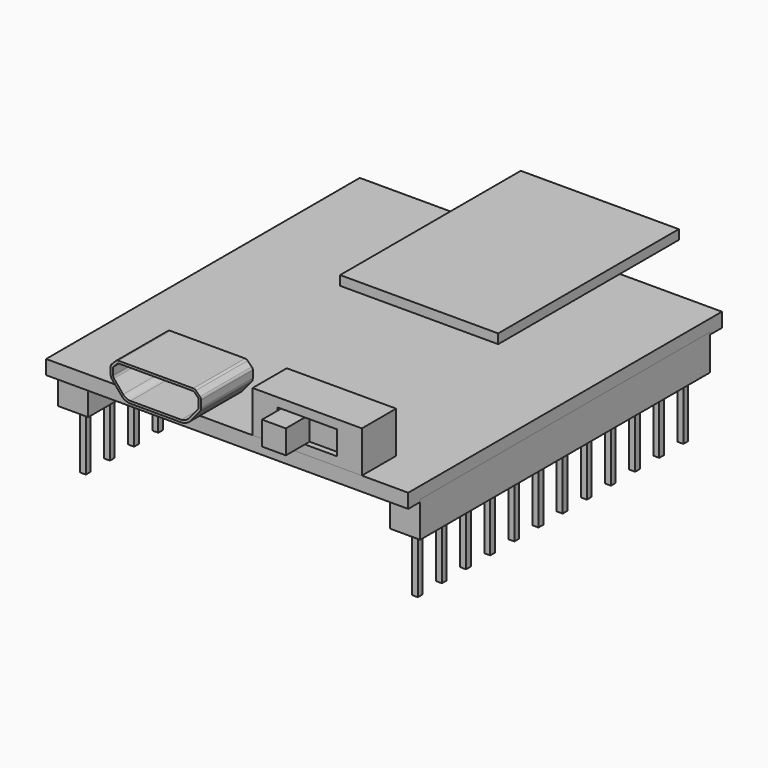
from build123d import *

# Parameters (mm, degrees)
F0_W      = 30.48
F0_H      = 33
F1_DEPTH  = 1.2
F2_W      = 13.3
F2_H      = 19
F3_DEPTH  = 0.8
F4_W      = 7.6
F4_H      = 5.45
F5_DEPTH  = 2.85
F7_DEPTH  = 10
F9_START  = -1
F8_W      = 2.54
F8_H      = 30.48
F9_DEPTH  = 3
F10_W     = 9.2
F10_H     = 3.6
F11_DEPTH = 3.5
F12_W     = 5
F12_H     = 2
F13_DEPTH = 0.5
F14_W     = 2
F14_H     = 2
F15_DEPTH = 2.5
F16_W     = 7.62
F16_H     = 2.8
F17_DEPTH = 2.54
F18_W     = 0.5
F18_H     = 0.5
F19_DEPTH = 5
F20_W     = 0.5
F20_H     = 0.5
F21_DEPTH = 5
F23_DEPTH = 5


with BuildPart() as f1:
    # F0 (on Top) → F1 (new body)
    with BuildSketch(Plane.XY):
        with Locations((0, -0.5)):
            Rectangle(F0_W, F0_H)
    extrude(amount=F1_DEPTH)


with BuildPart() as f3:
    # F2 (on face) → F3 (new body)
    with BuildSketch(Plane.XY.offset(1.2)):
        with Locations((0, 12.7)):
            Rectangle(F2_W, F2_H)
    extrude(amount=F3_DEPTH)


with BuildPart() as f5:
    # F4 (on face) → F5 (new body)
    with BuildSketch(Plane.XY.offset(1.2)):
        with Locations((-4.8, -15.775)):
            Rectangle(F4_W, F4_H)
    extrude(amount=F5_DEPTH)

    # F6 (on face) → F7 (cut)
    with BuildSketch(Plane.XZ.offset(18.5)):
        with BuildLine():
            Line((-7.9507359313, 4.05), (-4.8, 4.05))
            Line((-4.8, 4.05), (-1.6492640687, 4.05))
            ThreePointArc((-1.6492640687, 4.05), (-1.534459039, 4.0271638598), (-1.4371320344, 3.9621320344))
            Line((-1.4371320344, 3.9621320344), (-1.0878679656, 3.6128679656))
            ThreePointArc((-1.0878679656, 3.6128679656), (-1.0228361402, 3.515540961), (-1, 3.4007359313))
            Line((-1, 3.4007359313), (-1, 2.8069851171))
            ThreePointArc((-1, 2.8069851171), (-1.0301536896, 2.6359750455), (-1.1169777784, 2.4855913123))
            Line((-1.1169777784, 2.4855913123), (-1.8959801895, 1.5572123903))
            ThreePointArc((-1.8959801895, 1.5572123903), (-2.2394063708, 1.293692213), (-2.6620246326, 1.2))
            Line((-2.6620246326, 1.2), (6.9379753674, 1.2))
            Line((6.9379753674, 1.2), (11.1131762505, 1.2))
            Line((11.1131762505, 1.2), (11.1131762505, 8.2524418831))
            Line((11.1131762505, 8.2524418831), (-16.5379753674, 8.2524418831))
            Line((-16.5379753674, 8.2524418831), (-16.5379753674, 1.2))
            Line((-16.5379753674, 1.2), (-6.9379753674, 1.2))
            ThreePointArc((-6.9379753674, 1.2), (-7.3605936292, 1.293692213), (-7.7040198105, 1.5572123903))
            Line((-7.7040198105, 1.5572123903), (-8.4830222216, 2.4855913123))
            ThreePointArc((-8.4830222216, 2.4855913123), (-8.5698463104, 2.6359750455), (-8.6, 2.8069851171))
            Line((-8.6, 2.8069851171), (-8.6, 3.4007359313))
            ThreePointArc((-8.6, 3.4007359313), (-8.5771638598, 3.515540961), (-8.5121320344, 3.6128679656))
            Line((-8.5121320344, 3.6128679656), (-8.1628679656, 3.9621320344))
            ThreePointArc((-8.1628679656, 3.9621320344), (-8.065540961, 4.0271638598), (-7.9507359313, 4.05))
        make_face()
    extrude(amount=-F7_DEPTH, mode=Mode.SUBTRACT)

    # F22 (on face) → F23 (cut)
    with BuildSketch(Plane.XZ.offset(18.5)):
        with BuildLine():
            Line((-8.4, 3.4007359313), (-8.4, 2.8069851171))
            ThreePointArc((-8.4, 2.8069851171), (-8.3819077862, 2.7043790741), (-8.3298133329, 2.6141488342))
            Line((-8.3298133329, 2.6141488342), (-7.5508109219, 1.6857699123))
            ThreePointArc((-7.5508109219, 1.6857699123), (-7.2760699768, 1.4749537704), (-6.9379753674, 1.4))
            Line((-6.9379753674, 1.4), (-2.6620246326, 1.4))
            ThreePointArc((-2.6620246326, 1.4), (-2.3239300232, 1.4749537704), (-2.0491890781, 1.6857699123))
            Line((-2.0491890781, 1.6857699123), (-1.2701866671, 2.6141488342))
            ThreePointArc((-1.2701866671, 2.6141488342), (-1.2180922138, 2.7043790741), (-1.2, 2.8069851171))
            Line((-1.2, 2.8069851171), (-1.2, 3.4007359313))
            ThreePointArc((-1.2, 3.4007359313), (-1.2076120467, 3.4390042745), (-1.2292893219, 3.4714466094))
            Line((-1.2292893219, 3.4714466094), (-1.5785533906, 3.8207106781))
            ThreePointArc((-1.5785533906, 3.8207106781), (-1.6109957255, 3.8423879533), (-1.6492640687, 3.85))
            Line((-1.6492640687, 3.85), (-7.9507359313, 3.85))
            ThreePointArc((-7.9507359313, 3.85), (-7.9890042745, 3.8423879533), (-8.0214466094, 3.8207106781))
            Line((-8.0214466094, 3.8207106781), (-8.3707106781, 3.4714466094))
            ThreePointArc((-8.3707106781, 3.4714466094), (-8.3923879533, 3.4390042745), (-8.4, 3.4007359313))
        make_face()
    extrude(amount=-F23_DEPTH, mode=Mode.SUBTRACT)


with BuildPart() as f9:
    # F8 (on face) → F9 (new body)
    with BuildSketch(Plane.XY.offset(1.2).offset(F9_START)):
        with Locations((13.97, -0.5)):
            Rectangle(F8_W, F8_H)
    extrude(amount=-F9_DEPTH)


with BuildPart() as f9b:
    # F8 (on face) → F9, piece 2 (new body)
    with BuildSketch(Plane.XY.offset(1.2).offset(F9_START)):
        with Locations((-13.97, -0.5)):
            Rectangle(F8_W, F8_H)
    extrude(amount=-F9_DEPTH)


with BuildPart() as f11:
    # F10 (on face) → F11 (new body)
    with BuildSketch(Plane.XY.offset(1.2)):
        with Locations((6.74, -15.2)):
            Rectangle(F10_W, F10_H)
    extrude(amount=F11_DEPTH)

    # F12 (on face) → F13 (cut)
    with BuildSketch(Plane.XZ.offset(17)):
        with Locations((6.74, 2.95)):
            Rectangle(F12_W, F12_H)
    extrude(amount=-F13_DEPTH, mode=Mode.SUBTRACT)


with BuildPart() as f15:
    # F14 (on face) → F15 (new body)
    with BuildSketch(Plane.XZ.offset(16.5)):
        with Locations((5.54, 2.95)):
            Rectangle(F14_W, F14_H)
    extrude(amount=F15_DEPTH)


with BuildPart() as f17:
    # F16 (on face) → F17 (new body)
    with BuildSketch(Plane(origin=(0, 0, 0), x_dir=(1, 0, 0), z_dir=(0, 0, -1))):
        with Locations((0, -12.06)):
            Rectangle(F16_W, F16_H)
    extrude(amount=F17_DEPTH)


with BuildPart() as f19:
    # F18 (on face) → F19 (new body)
    with BuildSketch(Plane.XZ.offset(-10.66)):
        with Locations((2.54, -1.27)):
            Rectangle(F18_W, F18_H)
    extrude(amount=F19_DEPTH)


with BuildPart() as f19b:
    # F18 (on face) → F19, piece 2 (new body)
    with BuildSketch(Plane.XZ.offset(-10.66)):
        with Locations((0, -1.27)):
            Rectangle(F18_W, F18_H)
    extrude(amount=F19_DEPTH)


with BuildPart() as f19c:
    # F18 (on face) → F19, piece 3 (new body)
    with BuildSketch(Plane.XZ.offset(-10.66)):
        with Locations((-2.54, -1.27)):
            Rectangle(F18_W, F18_H)
    extrude(amount=F19_DEPTH)


with BuildPart() as f21:
    # F20 (on face) → F21 (new body)
    with BuildSketch(Plane(origin=(0, 0, -2.8), x_dir=(1, 0, 0), z_dir=(0, 0, -1))):
        with Locations((13.97, -13.47)):
            Rectangle(F20_W, F20_H)
    extrude(amount=F21_DEPTH)


with BuildPart() as f21b:
    # F20 (on face) → F21, piece 2 (new body)
    with BuildSketch(Plane(origin=(0, 0, -2.8), x_dir=(1, 0, 0), z_dir=(0, 0, -1))):
        with Locations((13.97, -10.93)):
            Rectangle(F20_W, F20_H)
    extrude(amount=F21_DEPTH)


with BuildPart() as f21c:
    # F20 (on face) → F21, piece 3 (new body)
    with BuildSketch(Plane(origin=(0, 0, -2.8), x_dir=(1, 0, 0), z_dir=(0, 0, -1))):
        with Locations((13.97, -8.39)):
            Rectangle(F20_W, F20_H)
    extrude(amount=F21_DEPTH)


with BuildPart() as f21d:
    # F20 (on face) → F21, piece 4 (new body)
    with BuildSketch(Plane(origin=(0, 0, -2.8), x_dir=(1, 0, 0), z_dir=(0, 0, -1))):
        with Locations((13.97, -5.85)):
            Rectangle(F20_W, F20_H)
    extrude(amount=F21_DEPTH)


with BuildPart() as f21e:
    # F20 (on face) → F21, piece 5 (new body)
    with BuildSketch(Plane(origin=(0, 0, -2.8), x_dir=(1, 0, 0), z_dir=(0, 0, -1))):
        with Locations((13.97, -3.31)):
            Rectangle(F20_W, F20_H)
    extrude(amount=F21_DEPTH)


with BuildPart() as f21f:
    # F20 (on face) → F21, piece 6 (new body)
    with BuildSketch(Plane(origin=(0, 0, -2.8), x_dir=(1, 0, 0), z_dir=(0, 0, -1))):
        with Locations((13.97, -0.77)):
            Rectangle(F20_W, F20_H)
    extrude(amount=F21_DEPTH)


with BuildPart() as f21g:
    # F20 (on face) → F21, piece 7 (new body)
    with BuildSketch(Plane(origin=(0, 0, -2.8), x_dir=(1, 0, 0), z_dir=(0, 0, -1))):
        with Locations((-13.97, -5.85)):
            Rectangle(F20_W, F20_H)
    extrude(amount=F21_DEPTH)


with BuildPart() as f21h:
    # F20 (on face) → F21, piece 8 (new body)
    with BuildSketch(Plane(origin=(0, 0, -2.8), x_dir=(1, 0, 0), z_dir=(0, 0, -1))):
        with Locations((-13.97, -0.77)):
            Rectangle(F20_W, F20_H)
    extrude(amount=F21_DEPTH)


with BuildPart() as f21i:
    # F20 (on face) → F21, piece 9 (new body)
    with BuildSketch(Plane(origin=(0, 0, -2.8), x_dir=(1, 0, 0), z_dir=(0, 0, -1))):
        with Locations((-13.97, -13.47)):
            Rectangle(F20_W, F20_H)
    extrude(amount=F21_DEPTH)


with BuildPart() as f21j:
    # F20 (on face) → F21, piece 10 (new body)
    with BuildSketch(Plane(origin=(0, 0, -2.8), x_dir=(1, 0, 0), z_dir=(0, 0, -1))):
        with Locations((-13.97, -8.39)):
            Rectangle(F20_W, F20_H)
    extrude(amount=F21_DEPTH)


with BuildPart() as f21k:
    # F20 (on face) → F21, piece 11 (new body)
    with BuildSketch(Plane(origin=(0, 0, -2.8), x_dir=(1, 0, 0), z_dir=(0, 0, -1))):
        with Locations((-13.97, -10.93)):
            Rectangle(F20_W, F20_H)
    extrude(amount=F21_DEPTH)


with BuildPart() as f21l:
    # F20 (on face) → F21, piece 12 (new body)
    with BuildSketch(Plane(origin=(0, 0, -2.8), x_dir=(1, 0, 0), z_dir=(0, 0, -1))):
        with Locations((-13.97, -3.31)):
            Rectangle(F20_W, F20_H)
    extrude(amount=F21_DEPTH)


with BuildPart() as f21m:
    # F20 (on face) → F21, piece 13 (new body)
    with BuildSketch(Plane(origin=(0, 0, -2.8), x_dir=(1, 0, 0), z_dir=(0, 0, -1))):
        with Locations((-13.97, 4.31)):
            Rectangle(F20_W, F20_H)
    extrude(amount=F21_DEPTH)


with BuildPart() as f21n:
    # F20 (on face) → F21, piece 14 (new body)
    with BuildSketch(Plane(origin=(0, 0, -2.8), x_dir=(1, 0, 0), z_dir=(0, 0, -1))):
        with Locations((-13.97, 14.47)):
            Rectangle(F20_W, F20_H)
    extrude(amount=F21_DEPTH)


with BuildPart() as f21o:
    # F20 (on face) → F21, piece 15 (new body)
    with BuildSketch(Plane(origin=(0, 0, -2.8), x_dir=(1, 0, 0), z_dir=(0, 0, -1))):
        with Locations((-13.97, 6.85)):
            Rectangle(F20_W, F20_H)
    extrude(amount=F21_DEPTH)


with BuildPart() as f21p:
    # F20 (on face) → F21, piece 16 (new body)
    with BuildSketch(Plane(origin=(0, 0, -2.8), x_dir=(1, 0, 0), z_dir=(0, 0, -1))):
        with Locations((-13.97, 11.93)):
            Rectangle(F20_W, F20_H)
    extrude(amount=F21_DEPTH)


with BuildPart() as f21q:
    # F20 (on face) → F21, piece 17 (new body)
    with BuildSketch(Plane(origin=(0, 0, -2.8), x_dir=(1, 0, 0), z_dir=(0, 0, -1))):
        with Locations((-13.97, 9.39)):
            Rectangle(F20_W, F20_H)
    extrude(amount=F21_DEPTH)


with BuildPart() as f21r:
    # F20 (on face) → F21, piece 18 (new body)
    with BuildSketch(Plane(origin=(0, 0, -2.8), x_dir=(1, 0, 0), z_dir=(0, 0, -1))):
        with Locations((-13.97, 1.77)):
            Rectangle(F20_W, F20_H)
    extrude(amount=F21_DEPTH)


with BuildPart() as f21s:
    # F20 (on face) → F21, piece 19 (new body)
    with BuildSketch(Plane(origin=(0, 0, -2.8), x_dir=(1, 0, 0), z_dir=(0, 0, -1))):
        with Locations((13.97, 6.85)):
            Rectangle(F20_W, F20_H)
    extrude(amount=F21_DEPTH)


with BuildPart() as f21t:
    # F20 (on face) → F21, piece 20 (new body)
    with BuildSketch(Plane(origin=(0, 0, -2.8), x_dir=(1, 0, 0), z_dir=(0, 0, -1))):
        with Locations((13.97, 9.39)):
            Rectangle(F20_W, F20_H)
    extrude(amount=F21_DEPTH)


with BuildPart() as f21u:
    # F20 (on face) → F21, piece 21 (new body)
    with BuildSketch(Plane(origin=(0, 0, -2.8), x_dir=(1, 0, 0), z_dir=(0, 0, -1))):
        with Locations((13.97, 4.31)):
            Rectangle(F20_W, F20_H)
    extrude(amount=F21_DEPTH)


with BuildPart() as f21v:
    # F20 (on face) → F21, piece 22 (new body)
    with BuildSketch(Plane(origin=(0, 0, -2.8), x_dir=(1, 0, 0), z_dir=(0, 0, -1))):
        with Locations((13.97, 14.47)):
            Rectangle(F20_W, F20_H)
    extrude(amount=F21_DEPTH)


with BuildPart() as f21w:
    # F20 (on face) → F21, piece 23 (new body)
    with BuildSketch(Plane(origin=(0, 0, -2.8), x_dir=(1, 0, 0), z_dir=(0, 0, -1))):
        with Locations((13.97, 11.93)):
            Rectangle(F20_W, F20_H)
    extrude(amount=F21_DEPTH)


with BuildPart() as f21x:
    # F20 (on face) → F21, piece 24 (new body)
    with BuildSketch(Plane(origin=(0, 0, -2.8), x_dir=(1, 0, 0), z_dir=(0, 0, -1))):
        with Locations((13.97, 1.77)):
            Rectangle(F20_W, F20_H)
    extrude(amount=F21_DEPTH)


solid = Compound([f1.part, f3.part, f5.part, f9.part, f9b.part, f11.part, f15.part, f17.part, f19.part, f19b.part, f19c.part, f21.part, f21b.part, f21c.part, f21d.part, f21e.part, f21f.part, f21g.part, f21h.part, f21i.part, f21j.part, f21k.part, f21l.part, f21m.part, f21n.part, f21o.part, f21p.part, f21q.part, f21r.part, f21s.part, f21t.part, f21u.part, f21v.part, f21w.part, f21x.part])
